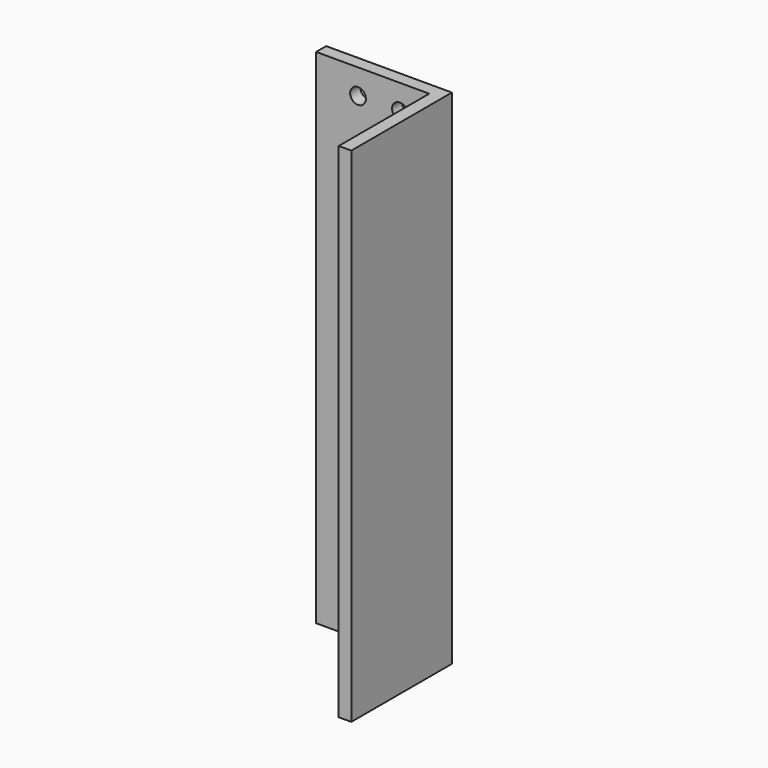
from build123d import *

# Parameters (mm, degrees)
F0_W     = 25.4
F0_H     = 101.6
F1_DEPTH = 25.4
F2_T     = -2.54
F4_D     = 3.175
F5_D     = 3.175
F3_W     = 3.302
F3_H     = 3.302
F6_DEPTH = 10.16


with BuildPart() as f1:
    # F0 (on Front) → F1 (new body)
    with BuildSketch(Plane.XZ):
        with Locations((-9.550009, -5.865395)):
            Rectangle(F0_W, F0_H)
    extrude(amount=F1_DEPTH)

    # F2
    f2_openings = [f1.faces().sort_by_distance(p)[0] for p in [
        (-9.550009, -25.4, -5.865395),
        (-9.550009, -12.7, 44.934605),
        (-22.250009, -12.7, -5.865395),
        (-9.550009, -12.7, -56.665395),
    ]]
    offset(amount=F2_T, openings=f2_openings)

    # F4 (through all)
    with Locations(Plane(origin=(0, 0, 0), x_dir=(-1, 0, 0), z_dir=(0, 1, 0))):
        with Locations((9.775658, -21.745628), (9.775658, -33.249211)):
            Hole(F4_D / 2)

    # F5 (through all)
    with Locations(Plane(origin=(0, 0, 0), x_dir=(-1, 0, 0), z_dir=(0, 1, 0))):
        with Locations((5.316675, 39.854605), (13.783342, 39.854605)):
            Hole(F5_D / 2)

    # F3 (on face) → F6 (cut)
    with BuildSketch(Plane(origin=(0, 0, 0), x_dir=(-1, 0, 0), z_dir=(0, 1, 0))):
        with Locations((9.775658, -44.752795)):
            Rectangle(F3_W, F3_H)
    extrude(amount=-F6_DEPTH, mode=Mode.SUBTRACT)


solid = f1.part
